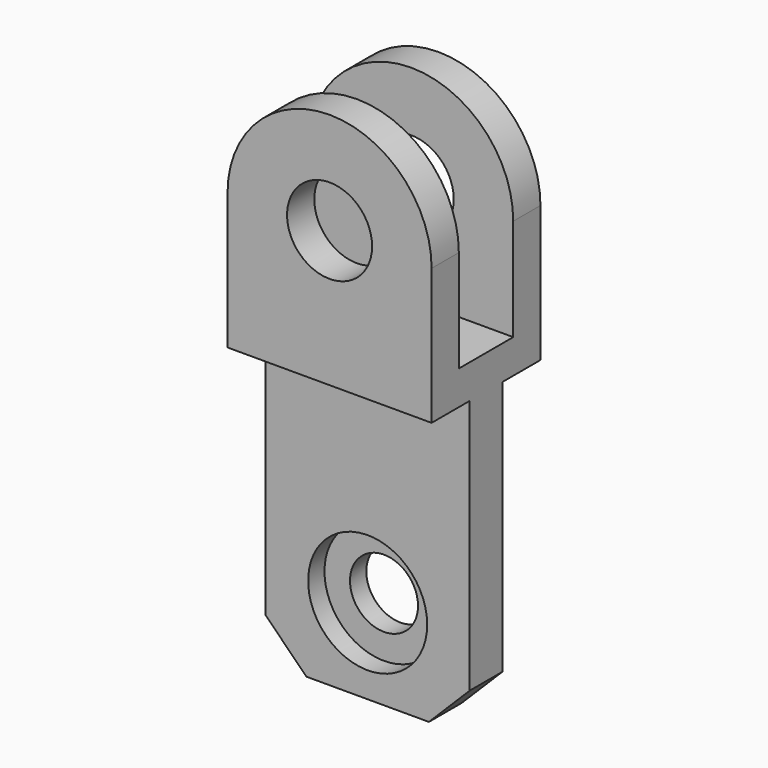
from build123d import *

# Parameters (mm, degrees)
SKETCH001_W  = 20
SKETCH001_H  = 80.939507
PAD001_DEPTH = 40
SKETCH_R     = 12.5
PAD_DEPTH    = 20
SKETCH002_R  = 10
PAD002_DEPTH = 6
SKETCH003_R  = 17.5
POCKET_DEPTH = 6


with BuildPart() as pad001:
    # Sketch001 → Pad001 (new body, symmetric)
    with BuildSketch(Plane.YZ):
        with Locations((0, 50.469753)):
            Rectangle(SKETCH001_W, SKETCH001_H)
    extrude(amount=PAD001_DEPTH, both=True)


with BuildPart() as cut:
    # Sketch → Pad (new body, symmetric)
    with BuildSketch(Plane.XZ):
        with BuildLine():
            Line((30, 40), (30, 0))
            Line((30, 0), (-30, 0))
            Line((-30, 0), (-30, 40))
            ThreePointArc((30, 40), (0, 70), (-30, 40))
        make_face()
        with Locations((0, 40)):
            Circle(SKETCH_R, mode=Mode.SUBTRACT)
    extrude(amount=PAD_DEPTH, both=True)

    # Cut: cut Pad001
    add(pad001.part, mode=Mode.SUBTRACT)


with BuildPart() as fusion:
    # Sketch002 → Pad002 (new body, symmetric)
    with BuildSketch(Plane.XZ):
        Polygon((-30, 0), (-30, -75), (-18, -87), (18, -87), (30, -75), (30, 0), align=None)
        with Locations((0, -62)):
            Circle(SKETCH002_R, mode=Mode.SUBTRACT)
    extrude(amount=PAD002_DEPTH, both=True)

    # Sketch003 → Pocket (cut)
    with BuildSketch(Plane.XZ.offset(6)):
        with Locations((0, -62)):
            Circle(SKETCH003_R)
    extrude(amount=-POCKET_DEPTH, mode=Mode.SUBTRACT)

    # Fusion: union Cut
    add(cut.part)


solid = fusion.part
